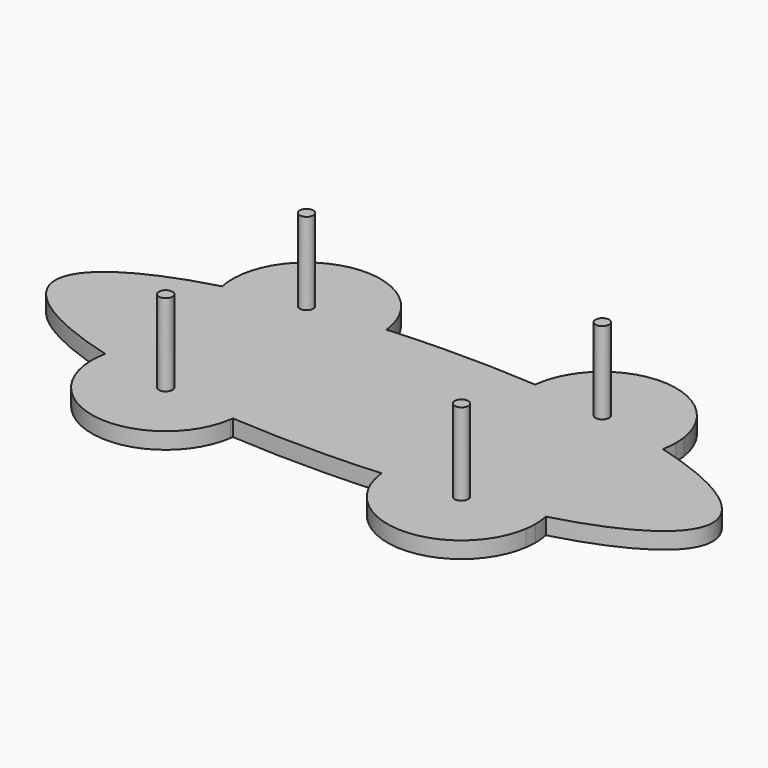
from build123d import *

# Parameters (mm, degrees)
F1_DEPTH = 10
F2_R     = 4.125
F3_DEPTH = 50


with BuildPart() as f1:
    # F0 (on Top) → F1 (new body)
    with BuildSketch(Plane.XY):
        with BuildLine():
            add(Edge.make_bspline(
                [(-134.0782683535, 44.5204628904), (-199.999999721, 26.6527141895), (-200, 1.885e-07)],
                knots=[2.305532398, 2.305532398, 2.305532398, 3.1415926504, 3.1415926504, 3.1415926504], degree=2, weights=[1, 0.9138904048, 1]))
            add(Edge.make_bspline(
                [(-200, 1.885e-07), (-200.000000279, -26.6526940275), (-134.0783510273, -44.5204404821)],
                knots=[3.1415926504, 3.1415926504, 3.1415926504, 3.9776523521, 3.9776523521, 3.9776523521], degree=2, weights=[1, 0.9138905166, 1]))
            ThreePointArc((-134.0783510273, -44.5204404821), (-118.4364363932, -18.7048054461), (-90, -8.5812887157))
            Line((-90, -8.5812887157), (-90, 8.5817132985))
            ThreePointArc((-90, 8.5817132985), (-118.4362772848, 18.7051003009), (-134.0782683535, 44.5204628904))
        make_face()
        with BuildLine():
            add(Edge.make_bspline(
                [(134.0783510273, -44.5204404821), (200, -26.6526941032), (200, 0)],
                knots=[5.4471256087, 5.4471256087, 5.4471256087, 6.2831853072, 6.2831853072, 6.2831853072], degree=2, weights=[1, 0.9138905173, 1]))
            add(Edge.make_bspline(
                [(200, 0), (200, 26.6527141139), (134.0782683535, 44.5204628904)],
                knots=[0, 0, 0, 0.8360602556, 0.8360602556, 0.8360602556], degree=2, weights=[1, 0.9138904042, 1]))
            ThreePointArc((134.0782683535, 44.5204628904), (118.4362772848, 18.7051003009), (90, 8.5817132985))
            Line((90, 8.5817132985), (90, -8.5812887157))
            ThreePointArc((90, -8.5812887157), (118.4364363932, -18.7048054461), (134.0783510273, -44.5204404821))
        make_face()
        with BuildLine():
            Line((90, -8.5812887157), (90, 8.5817132985))
            ThreePointArc((90, 8.5817132985), (58.1801948466, 21.7619081451), (45, 53.5817132985))
            Line((45, 53.5817132985), (-45, 53.5817132985))
            ThreePointArc((-45, 53.5817132985), (-58.1801948466, 21.7619081451), (-90, 8.5817132985))
            Line((-90, 8.5817132985), (-90, -8.5812887157))
            ThreePointArc((-90, -8.5812887157), (-58.1801948466, -21.7614835623), (-45, -53.5812887157))
            ThreePointArc((-45, -53.5812887157), (-45.0000000005, -53.5815010071), (-45.000000002, -53.5817132985))
            Line((-45.000000002, -53.5817132985), (45.000000002, -53.5817132985))
            ThreePointArc((45.000000002, -53.5817132985), (58.1800447343, -21.7616336753), (90, -8.5812887157))
        make_face()
        with BuildLine():
            Line((90, 8.5817132985), (90, 53.5817132985))
            Line((90, 53.5817132985), (45, 53.5817132985))
            ThreePointArc((45, 53.5817132985), (58.1801948466, 21.7619081451), (90, 8.5817132985))
        make_face()
        with BuildLine():
            Line((45.000000002, -53.5817132985), (90, -53.5817132985))
            Line((90, -53.5817132985), (90, -8.5812887157))
            ThreePointArc((90, -8.5812887157), (58.1800447343, -21.7616336753), (45.000000002, -53.5817132985))
        make_face()
        with BuildLine():
            Line((-90, -8.5812887157), (-90, -53.5817132985))
            Line((-90, -53.5817132985), (-45.000000002, -53.5817132985))
            ThreePointArc((-45.000000002, -53.5817132985), (-45.0000000005, -53.5815010071), (-45, -53.5812887157))
            ThreePointArc((-45, -53.5812887157), (-58.1801948466, -21.7614835623), (-90, -8.5812887157))
        make_face()
        with BuildLine():
            Line((-45, 53.5817132985), (-90, 53.5817132985))
            Line((-90, 53.5817132985), (-90, 8.5817132985))
            ThreePointArc((-90, 8.5817132985), (-58.1801948466, 21.7619081451), (-45, 53.5817132985))
        make_face()
        with BuildLine():
            add(Edge.make_bspline(
                [(-90, 53.5817132985), (-114.0747884437, 49.9423039853), (-134.0782683535, 44.5204628904)],
                knots=[2.0375616658, 2.0375616658, 2.0375616658, 2.305532398, 2.305532398, 2.305532398], degree=2, weights=[1, 0.991037381, 1]))
            ThreePointArc((-134.0782683535, 44.5204628904), (-118.4362772848, 18.7051003009), (-90, 8.5817132985))
            Line((-90, 8.5817132985), (-90, 53.5817132985))
        make_face()
        with BuildLine():
            ThreePointArc((-90, -8.5812887157), (-118.4364363932, -18.7048054461), (-134.0783510273, -44.5204404821))
            add(Edge.make_bspline(
                [(-134.0783510273, -44.5204404821), (-114.0748390978, -49.9422963279), (-90, -53.5817132985)],
                knots=[3.9776523521, 3.9776523521, 3.9776523521, 4.2456236413, 4.2456236413, 4.2456236413], degree=2, weights=[1, 0.9910373438, 1]))
            Line((-90, -53.5817132985), (-90, -8.5812887157))
        make_face()
        with BuildLine():
            ThreePointArc((90, 8.5817132985), (118.4362772848, 18.7051003009), (134.0782683535, 44.5204628904))
            add(Edge.make_bspline(
                [(134.0782683535, 44.5204628904), (114.0747884437, 49.9423039853), (90, 53.5817132985)],
                knots=[0.8360602556, 0.8360602556, 0.8360602556, 1.1040309877, 1.1040309877, 1.1040309877], degree=2, weights=[1, 0.991037381, 1]))
            Line((90, 53.5817132985), (90, 8.5817132985))
        make_face()
        with BuildLine():
            add(Edge.make_bspline(
                [(90, -53.5817132985), (114.0748390978, -49.9422963279), (134.0783510273, -44.5204404821)],
                knots=[5.1791543194, 5.1791543194, 5.1791543194, 5.4471256087, 5.4471256087, 5.4471256087], degree=2, weights=[1, 0.9910373438, 1]))
            ThreePointArc((134.0783510273, -44.5204404821), (118.4364363932, -18.7048054461), (90, -8.5812887157))
            Line((90, -8.5812887157), (90, -53.5817132985))
        make_face()
        with BuildLine():
            add(Edge.make_bspline(
                [(45.2634197039, -58.4432207814), (68.6024188359, -56.816406569), (90, -53.5817132985)],
                knots=[4.9406839873, 4.9406839873, 4.9406839873, 5.1791543194, 5.1791543194, 5.1791543194], degree=2, weights=[1, 0.9928999054, 1]))
            Line((90, -53.5817132985), (45.000000002, -53.5817132985))
            ThreePointArc((45.000000002, -53.5817132985), (45.0659146697, -56.0160321373), (45.2634197039, -58.4432207814))
        make_face()
        with BuildLine():
            ThreePointArc((135, -53.5812887157), (134.7689948303, -49.0274878982), (134.0783510273, -44.5204404821))
            add(Edge.make_bspline(
                [(90, -53.5817132985), (114.0748390978, -49.9422963279), (134.0783510273, -44.5204404821)],
                knots=[5.1791543194, 5.1791543194, 5.1791543194, 5.4471256087, 5.4471256087, 5.4471256087], degree=2, weights=[1, 0.9910373438, 1]))
            add(Edge.make_bspline(
                [(45.2634197039, -58.4432207814), (68.6024188359, -56.816406569), (90, -53.5817132985)],
                knots=[4.9406839873, 4.9406839873, 4.9406839873, 5.1791543194, 5.1791543194, 5.1791543194], degree=2, weights=[1, 0.9928999054, 1]))
            ThreePointArc((45.2634197039, -58.4432207814), (45.3549879851, -59.2224678649), (45.4601285874, -60))
            Line((45.4601285874, -60), (134.5398714126, -60))
            ThreePointArc((134.5398714126, -60), (134.8848204495, -56.7988799292), (135, -53.5812887157))
        make_face()
        with BuildLine():
            Line((45, 53.5817132985), (90, 53.5817132985))
            add(Edge.make_bspline(
                [(90, 53.5817132985), (68.6023975421, 56.816409788), (45.2633739095, 58.4432239734)],
                knots=[1.1040309877, 1.1040309877, 1.1040309877, 1.3425015549, 1.3425015549, 1.3425015549], degree=2, weights=[1, 0.9928998914, 1]))
            ThreePointArc((45.2633739095, 58.4432239734), (45.0658917187, 56.0160331141), (45, 53.5817132985))
        make_face()
        with BuildLine():
            add(Edge.make_bspline(
                [(45.2633739095, 58.4432239734), (22.9291498784, 60), (0, 60)],
                knots=[1.3425015549, 1.3425015549, 1.3425015549, 1.5707963268, 1.5707963268, 1.5707963268], degree=2, weights=[1, 0.9934922579, 1]))
            add(Edge.make_bspline(
                [(0, 60), (-22.9291498784, 60), (-45.2633739095, 58.4432239734)],
                knots=[1.5707963268, 1.5707963268, 1.5707963268, 1.7990910987, 1.7990910987, 1.7990910987], degree=2, weights=[1, 0.9934922579, 1]))
            ThreePointArc((-45.2633739095, 58.4432239734), (-45.0658917187, 56.0160331141), (-45, 53.5817132985))
            Line((-45, 53.5817132985), (45, 53.5817132985))
            ThreePointArc((45, 53.5817132985), (45.0658917187, 56.0160331141), (45.2633739095, 58.4432239734))
        make_face()
        with BuildLine():
            Line((45.4600674022, 60), (134.5399325978, 60))
            ThreePointArc((134.5399325978, 60), (90, 98.5817132985), (45.4600674022, 60))
        make_face()
        with BuildLine():
            ThreePointArc((135, 53.5817132985), (134.884835785, 56.7990905765), (134.5399325978, 60))
            Line((134.5399325978, 60), (45.4600674022, 60))
            ThreePointArc((45.4600674022, 60), (45.3549345313, 59.2224693911), (45.2633739095, 58.4432239734))
            add(Edge.make_bspline(
                [(90, 53.5817132985), (68.6023975421, 56.816409788), (45.2633739095, 58.4432239734)],
                knots=[1.1040309877, 1.1040309877, 1.1040309877, 1.3425015549, 1.3425015549, 1.3425015549], degree=2, weights=[1, 0.9928998914, 1]))
            add(Edge.make_bspline(
                [(134.0782683535, 44.5204628904), (114.0747884437, 49.9423039853), (90, 53.5817132985)],
                knots=[0.8360602556, 0.8360602556, 0.8360602556, 1.1040309877, 1.1040309877, 1.1040309877], degree=2, weights=[1, 0.991037381, 1]))
            ThreePointArc((134.0782683535, 44.5204628904), (134.7689740552, 49.0277082429), (135, 53.5817132985))
        make_face()
        with BuildLine():
            ThreePointArc((-45.4600674022, 60), (-90, 98.5817132985), (-134.5399325978, 60))
            Line((-134.5399325978, 60), (-45.4600674022, 60))
        make_face()
        with BuildLine():
            Line((-45.4600674022, 60), (-134.5399325978, 60))
            ThreePointArc((-134.5399325978, 60), (-134.9800000249, 52.2402224274), (-134.0782683535, 44.5204628904))
            add(Edge.make_bspline(
                [(-90, 53.5817132985), (-114.0747884437, 49.9423039853), (-134.0782683535, 44.5204628904)],
                knots=[2.0375616658, 2.0375616658, 2.0375616658, 2.305532398, 2.305532398, 2.305532398], degree=2, weights=[1, 0.991037381, 1]))
            add(Edge.make_bspline(
                [(-45.2633739095, 58.4432239734), (-68.6023975421, 56.816409788), (-90, 53.5817132985)],
                knots=[1.7990910987, 1.7990910987, 1.7990910987, 2.0375616658, 2.0375616658, 2.0375616658], degree=2, weights=[1, 0.9928998914, 1]))
            ThreePointArc((-45.2633739095, 58.4432239734), (-45.3549345313, 59.2224693911), (-45.4600674022, 60))
        make_face()
        with BuildLine():
            add(Edge.make_bspline(
                [(-45.2633739095, 58.4432239734), (-68.6023975421, 56.816409788), (-90, 53.5817132985)],
                knots=[1.7990910987, 1.7990910987, 1.7990910987, 2.0375616658, 2.0375616658, 2.0375616658], degree=2, weights=[1, 0.9928998914, 1]))
            Line((-90, 53.5817132985), (-45, 53.5817132985))
            ThreePointArc((-45, 53.5817132985), (-45.0658917187, 56.0160331141), (-45.2633739095, 58.4432239734))
        make_face()
        with BuildLine():
            Line((-45.000000002, -53.5817132985), (-90, -53.5817132985))
            add(Edge.make_bspline(
                [(-90, -53.5817132985), (-68.6024188359, -56.816406569), (-45.2634197039, -58.4432207814)],
                knots=[4.2456236413, 4.2456236413, 4.2456236413, 4.4840939735, 4.4840939735, 4.4840939735], degree=2, weights=[1, 0.9928999054, 1]))
            ThreePointArc((-45.2634197039, -58.4432207814), (-45.0659146697, -56.0160321373), (-45.000000002, -53.5817132985))
        make_face()
        with BuildLine():
            Line((-45.4601285874, -60), (-134.5398714126, -60))
            ThreePointArc((-134.5398714126, -60), (-90, -98.5812887157), (-45.4601285874, -60))
        make_face()
        with BuildLine():
            ThreePointArc((45.4601285874, -60), (90, -98.5812887157), (134.5398714126, -60))
            Line((134.5398714126, -60), (45.4601285874, -60))
        make_face()
        with BuildLine():
            add(Edge.make_bspline(
                [(-134.0783510273, -44.5204404821), (-114.0748390978, -49.9422963279), (-90, -53.5817132985)],
                knots=[3.9776523521, 3.9776523521, 3.9776523521, 4.2456236413, 4.2456236413, 4.2456236413], degree=2, weights=[1, 0.9910373438, 1]))
            ThreePointArc((-134.0783510273, -44.5204404821), (-134.9800125369, -52.2402174345), (-134.5398714126, -60))
            Line((-134.5398714126, -60), (-45.4601285874, -60))
            ThreePointArc((-45.4601285874, -60), (-45.3549879851, -59.2224678649), (-45.2634197039, -58.4432207814))
            add(Edge.make_bspline(
                [(-90, -53.5817132985), (-68.6024188359, -56.816406569), (-45.2634197039, -58.4432207814)],
                knots=[4.2456236413, 4.2456236413, 4.2456236413, 4.4840939735, 4.4840939735, 4.4840939735], degree=2, weights=[1, 0.9928999054, 1]))
        make_face()
        with BuildLine():
            add(Edge.make_bspline(
                [(-2.225e-07, -60), (22.9291735847, -60.0000000077), (45.2634197039, -58.4432207814)],
                knots=[4.7123889793, 4.7123889793, 4.7123889793, 4.9406839873, 4.9406839873, 4.9406839873], degree=2, weights=[1, 0.9934922444, 1]))
            ThreePointArc((45.2634197039, -58.4432207814), (45.0659146697, -56.0160321373), (45.000000002, -53.5817132985))
            Line((45.000000002, -53.5817132985), (-45.000000002, -53.5817132985))
            ThreePointArc((-45.000000002, -53.5817132985), (-45.0659146697, -56.0160321373), (-45.2634197039, -58.4432207814))
            add(Edge.make_bspline(
                [(-45.2634197039, -58.4432207814), (-22.9291738043, -59.9999999923), (-2.225e-07, -60)],
                knots=[4.4840939735, 4.4840939735, 4.4840939735, 4.7123889793, 4.7123889793, 4.7123889793], degree=2, weights=[1, 0.9934922445, 1]))
        make_face()
    extrude(amount=F1_DEPTH)

    # F2 (on face) → F3 (join)
    with BuildSketch(Plane.XY.offset(10)):
        with Locations((90, 53.5817132985)):
            Circle(F2_R)
        with Locations((90, -53.5812887157)):
            Circle(F2_R)
        with Locations((-90, -53.5812887157)):
            Circle(F2_R)
        with Locations((-90, 53.5817132985)):
            Circle(F2_R)
    extrude(amount=F3_DEPTH)


solid = f1.part
